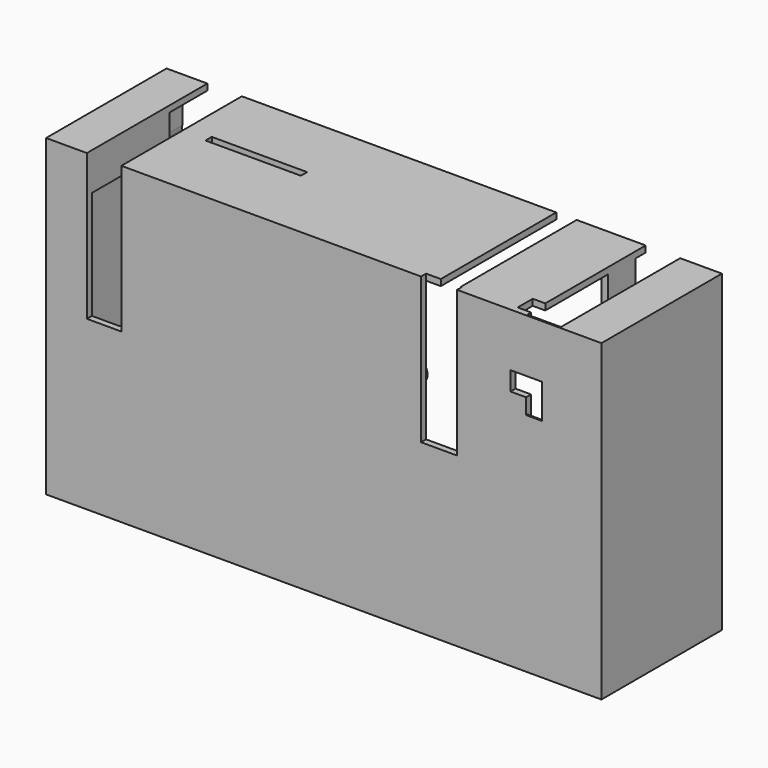
from build123d import *

# Parameters (mm, degrees)
SKETCH070_W     = 177
SKETCH070_H     = 100
PAD042_DEPTH    = 48
POCKET026_DEPTH = 46
SKETCH072_W     = 11
SKETCH072_H     = 46.5
SKETCH072_W_2   = 11.5
POCKET027_DEPTH = 5
SKETCH075_W     = 8.1
SKETCH075_H     = 9.5
PAD045_DEPTH    = 4.3
SKETCH077_R     = 1.15
POCKET029_DEPTH = 3
SKETCH086_R     = 3.3
SKETCH086_R_2   = 1.15
PAD052_DEPTH    = 4
SKETCH088_W     = 4
SKETCH088_H     = 6
SKETCH088_W_2   = 30.4
SKETCH088_H_2   = 2.5
POCKET032_DEPTH = 5
SKETCH089_W     = 13.5
SKETCH089_H     = 10
SKETCH089_W_2   = 16
SKETCH089_H_2   = 8
SKETCH089_W_3   = 7
SKETCH089_H_3   = 6
SKETCH089_W_4   = 9
POCKET033_DEPTH = 5
PAD054_DEPTH    = 15
POCKET034_DEPTH = 5
SKETCH092_R     = 1.15
POCKET035_DEPTH = 5
SKETCH093_W     = 95.5
SKETCH093_H     = 46.5
PAD055_DEPTH    = 0.5
SKETCH094_W     = 11
SKETCH094_H     = 31
SKETCH094_W_2   = 4.3
PAD056_DEPTH    = 10


with BuildPart() as part:
    # Sketch070 → Pad042 (new body)
    with BuildSketch(Plane.XZ):
        Rectangle(SKETCH070_W, SKETCH070_H)
    extrude(amount=-PAD042_DEPTH)

    # Sketch071 (on Face6 of Pad042) → Pocket026 (cut)
    with BuildSketch(Plane(origin=(0, 48, 0), x_dir=(1, 0, 0), z_dir=(0, 1, 0))):
        Polygon((-86.5, 48), (-86.5, -48), (-75.5, -48), (-75.5, -50), (-64.5, -50), (-64.5, -48), (35.7, -48), (35.7, -50), (42.2, -50), (42.2, -48), (64.2, -48), (64.2, -50), (75.2, -50), (75.2, -48), (86.5, -48), (86.5, 48), align=None)
    extrude(amount=-POCKET026_DEPTH, mode=Mode.SUBTRACT)

    # Sketch072 (on Face6 of Pocket026) → Pocket027 (cut)
    with BuildSketch(Plane(origin=(0, 2, 0), x_dir=(1, 0, 0), z_dir=(0, 1, 0))):
        Polygon((64.5, -50), (75.2, -50), (75.2, -3.5), (64.5, -3.5), (64.5, -27), (59.5, -27), (59.5, -33), (64.5, -33), align=None)
        with Locations((-70, -26.75)):
            Rectangle(SKETCH072_W, SKETCH072_H)
        with Locations((36.75, -26.75)):
            Rectangle(SKETCH072_W_2, SKETCH072_H)
    extrude(amount=-POCKET027_DEPTH, mode=Mode.SUBTRACT)

    # Sketch075 (on Face20 of Pocket027) → Pad045 (join)
    with BuildSketch(Plane(origin=(0, 2, 0), x_dir=(1, 0, 0), z_dir=(0, 1, 0))):
        with Locations((62.65, 1.25)):
            Rectangle(SKETCH075_W, SKETCH075_H)
        with Locations((-62.55, 1.25)):
            Rectangle(SKETCH075_W, SKETCH075_H)
    extrude(amount=PAD045_DEPTH)

    # Sketch077 (on Face42 of Pad045) → Pocket029 (cut)
    with BuildSketch(Plane(origin=(0, 6.3, 0), x_dir=(1, 0, 0), z_dir=(0, 1, 0))):
        with Locations((64, 1)):
            Circle(SKETCH077_R)
        with Locations((-64, 1)):
            Circle(SKETCH077_R)
    extrude(amount=-POCKET029_DEPTH, mode=Mode.SUBTRACT)

    # Sketch086 (on Face23 of Pocket029) → Pad052 (join)
    with BuildSketch(Plane(origin=(0, 2, 0), x_dir=(1, 0, 0), z_dir=(0, 1, 0))):
        with Locations((7, 2.3)):
            Circle(SKETCH086_R)
        with Locations((7, 2.3)):
            Circle(SKETCH086_R_2, mode=Mode.SUBTRACT)
        with Locations((25, 2.3)):
            Circle(SKETCH086_R)
        with Locations((25, 2.3)):
            Circle(SKETCH086_R_2, mode=Mode.SUBTRACT)
        with Locations((7, -19.2)):
            Circle(SKETCH086_R)
        with Locations((7, -19.2)):
            Circle(SKETCH086_R_2, mode=Mode.SUBTRACT)
        with Locations((25, -19.2)):
            Circle(SKETCH086_R)
        with Locations((25, -19.2)):
            Circle(SKETCH086_R_2, mode=Mode.SUBTRACT)
        with Locations((-77.5, 39)):
            Circle(SKETCH086_R)
        with Locations((-77.5, 39)):
            Circle(SKETCH086_R_2, mode=Mode.SUBTRACT)
        with Locations((77.5, 39)):
            Circle(SKETCH086_R)
        with Locations((77.5, 39)):
            Circle(SKETCH086_R_2, mode=Mode.SUBTRACT)
        with Locations((77.5, 14)):
            Circle(SKETCH086_R)
        with Locations((77.5, 14)):
            Circle(SKETCH086_R_2, mode=Mode.SUBTRACT)
        with Locations((-77.5, 14)):
            Circle(SKETCH086_R)
        with Locations((-77.5, 14)):
            Circle(SKETCH086_R_2, mode=Mode.SUBTRACT)
        with Locations((-57.5, -33)):
            Circle(SKETCH086_R)
        with Locations((-57.5, -33)):
            Circle(SKETCH086_R_2, mode=Mode.SUBTRACT)
        with Locations((-7, -33)):
            Circle(SKETCH086_R)
        with Locations((-7, -33)):
            Circle(SKETCH086_R_2, mode=Mode.SUBTRACT)
    extrude(amount=PAD052_DEPTH)

    # Sketch088 (on Face39 of Pad052) → Pocket032 (cut)
    with BuildSketch(Plane(origin=(0, 0, 48), x_dir=(1, 0, 0), z_dir=(0, 0, -1))):
        with Locations((62.2, -5)):
            Rectangle(SKETCH088_W, SKETCH088_H)
        with Locations((-41.48, -24.98)):
            Rectangle(SKETCH088_W_2, SKETCH088_H_2)
    extrude(amount=-POCKET032_DEPTH, mode=Mode.SUBTRACT)

    # Sketch089 (on Face22 of Pocket032) → Pocket033 (cut)
    with BuildSketch(Plane(origin=(0, 0, -50), x_dir=(1, 0, 0), z_dir=(0, 0, -1))):
        with Locations((52.75, -13)):
            Rectangle(SKETCH089_W, SKETCH089_H)
        with Locations((-21.2, -12)):
            Rectangle(SKETCH089_W_2, SKETCH089_H_2)
        with Locations((25.2, -11)):
            Rectangle(SKETCH089_W_3, SKETCH089_H_3)
        with Locations((11.5, -11)):
            Rectangle(SKETCH089_W_4, SKETCH089_H_3)
    extrude(amount=-POCKET033_DEPTH, mode=Mode.SUBTRACT)

    # Sketch090 (on Face4 of Pocket033) → Pad054 (join)
    with BuildSketch(Plane(origin=(0, 48, 0), x_dir=(1, 0, 0), z_dir=(0, 1, 0))):
        with BuildLine():
            Line((-86.5, -48), (-79.5, -48))
            Line((-79.5, -48), (-79.5, -39))
            ThreePointArc((-79.5, -39), (-81.550253, -34.050253), (-86.5, -32))
            Line((-86.5, -32), (-86.5, -39))
            Line((-86.5, -39), (-86.5, -48))
        make_face()
        with BuildLine():
            Line((86.5, -48), (86.5, -39))
            Line((86.5, -32), (86.5, -39))
            ThreePointArc((86.5, -32), (81.550253, -34.050253), (79.5, -39))
            Line((79.5, -39), (79.5, -48))
            Line((79.5, -48), (86.5, -48))
        make_face()
        with BuildLine():
            Line((-86.5, 48), (-86.5, 39))
            Line((-86.5, 39), (-86.5, 32))
            ThreePointArc((-86.5, 32), (-81.550253, 34.050253), (-79.5, 39))
            Line((-79.5, 39), (-79.5, 48))
            Line((-79.5, 48), (-86.5, 48))
        make_face()
        with BuildLine():
            Line((86.5, 48), (79.5, 48))
            Line((79.5, 48), (79.5, 39))
            ThreePointArc((79.5, 39), (81.550253, 34.050253), (86.5, 32))
            Line((86.5, 39), (86.5, 32))
            Line((86.5, 39), (86.5, 48))
        make_face()
    extrude(amount=-PAD054_DEPTH)

    # Sketch091 (on Face38 of Pad054) → Pocket034 (cut)
    with BuildSketch(Plane(origin=(0, 48, 0), x_dir=(1, 0, 0), z_dir=(0, 1, 0))):
        with BuildLine():
            Line((-86.5, 32), (-86.5, 48))
            Line((-86.5, 48), (-79.5, 48))
            Line((-79.5, 48), (-79.5, 39))
            ThreePointArc((-86.5, 32), (-81.550253, 34.050253), (-79.5, 39))
        make_face()
        with BuildLine():
            Line((79.5, 48), (86.5, 48))
            Line((86.5, 48), (86.5, 32))
            ThreePointArc((79.5, 39), (81.550253, 34.050253), (86.5, 32))
            Line((79.5, 48), (79.5, 39))
        make_face()
        with BuildLine():
            ThreePointArc((-79.5, -39), (-81.550253, -34.050253), (-86.5, -32))
            Line((-86.5, -48), (-86.5, -32))
            Line((-79.5, -48), (-86.5, -48))
            Line((-79.5, -39), (-79.5, -48))
        make_face()
        with BuildLine():
            Line((79.5, -48), (86.5, -48))
            Line((86.5, -48), (86.5, -32))
            ThreePointArc((86.5, -32), (81.550253, -34.050253), (79.5, -39))
            Line((79.5, -48), (79.5, -39))
        make_face()
    extrude(amount=-POCKET034_DEPTH, mode=Mode.SUBTRACT)

    # Sketch092 (on Face110 of Pocket034) → Pocket035 (cut)
    with BuildSketch(Plane(origin=(0, 43, 0), x_dir=(1, 0, 0), z_dir=(0, 1, 0))):
        with Locations((83, -43.5)):
            Circle(SKETCH092_R)
        with Locations((-83, -43.5)):
            Circle(SKETCH092_R)
        with Locations((-83, 43.5)):
            Circle(SKETCH092_R)
        with Locations((83, 43.5)):
            Circle(SKETCH092_R)
    extrude(amount=-POCKET035_DEPTH, mode=Mode.SUBTRACT)

    # Sketch093 (on Face2 of Pocket035) → Pad055 (join)
    with BuildSketch(Plane.XZ):
        with Locations((-16.75, 26.75)):
            Rectangle(SKETCH093_W, SKETCH093_H)
        Polygon((64.5, 50), (75.2, 50), (75.2, 3.5), (64.5, 3.5), (64.5, 22), (69.5, 22), (69.5, 33), (64.5, 33), align=None)
    extrude(amount=-PAD055_DEPTH)

    # Sketch094 (on Face70 of Pad055) → Pad056 (join)
    with BuildSketch(Plane(origin=(0, 0, 48), x_dir=(1, 0, 0), z_dir=(0, 0, -1))):
        Polygon((-64.5, -44), (-57.5, -44), (-57.5, -42), (-62.5, -42), (-62.5, -17), (-64.5, -17), align=None)
        Polygon((64.2, -44), (57.2, -44), (57.2, -42), (62.2, -42), (62.2, -33), (64.2, -33), align=None)
        with Locations((-81, -17.5)):
            Rectangle(SKETCH094_W, SKETCH094_H)
        with Locations((77.35, -17.5)):
            Rectangle(SKETCH094_W_2, SKETCH094_H)
    extrude(amount=PAD056_DEPTH)


with BuildPart() as part_1:
    # Body018 placement: moved
    add(part.part.moved(Location((0, -52, -56))))


solid = part_1.part
